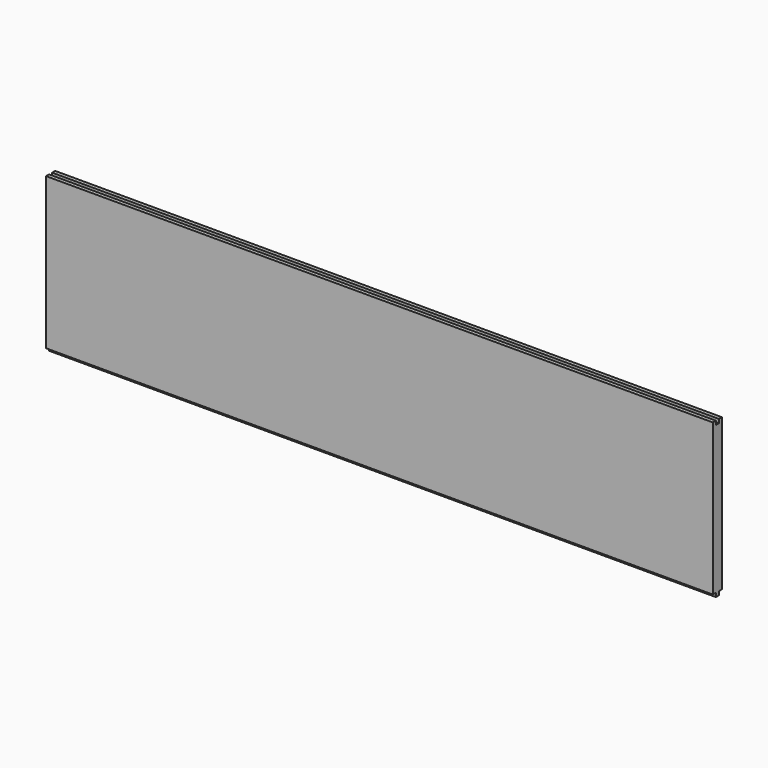
from build123d import *

# Parameters (mm, degrees)
F0_W     = 1117.6
F0_H     = 260.35
F1_DEPTH = 19.05
F2_W     = 6.35
F2_H     = 6.35
F3_DEPTH = 1117.601
F4_W     = 6.35
F4_H     = 6.35
F5_DEPTH = 1117.601


with BuildPart() as f1:
    # F0 (on Front) → F1 (new body)
    with BuildSketch(Plane.XZ):
        with Locations((-41.18352, -372.617407)):
            Rectangle(F0_W, F0_H)
    extrude(amount=F1_DEPTH)

    # F2 (on face) → F3 (cut, through all)
    with BuildSketch(Plane.YZ.offset(517.61648)):
        with Locations((-9.525, -245.617407)):
            Rectangle(F2_W, F2_H)
    extrude(amount=-F3_DEPTH, mode=Mode.SUBTRACT)

    # F4 (on face) + F2 (on face) → F5 (cut, through all)
    with BuildSketch(Plane.YZ.offset(517.61648)):
        with Locations((-15.875, -499.617407)):
            Rectangle(F4_W, F4_H)
        with Locations((-3.175, -499.617407)):
            Rectangle(F4_W, F4_H)
    with BuildSketch(Plane.YZ.offset(517.61648)):
        with Locations((-9.525, -245.617407)):
            Rectangle(F2_W, F2_H)
    extrude(amount=-F5_DEPTH, mode=Mode.SUBTRACT)


solid = f1.part
